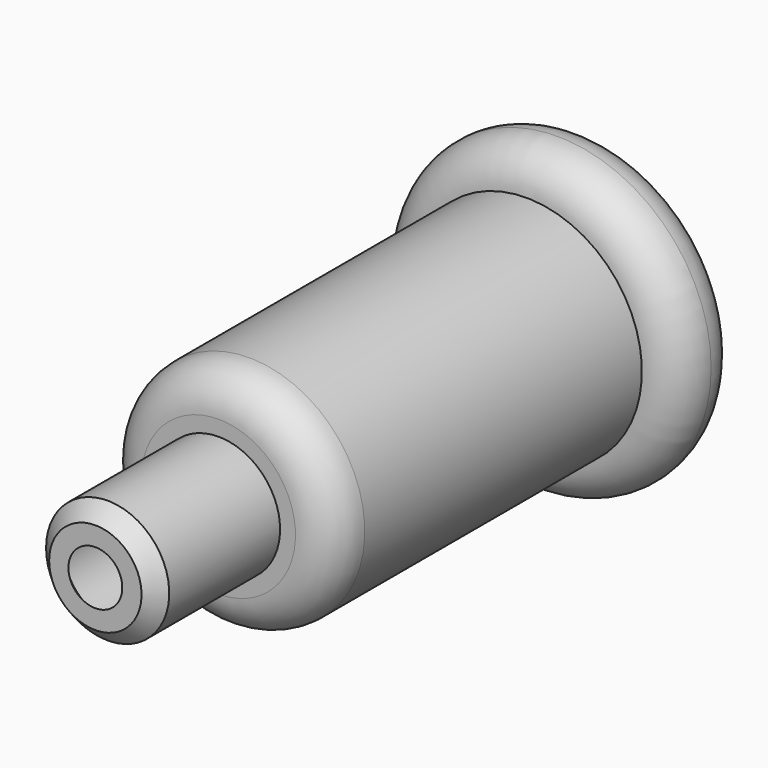
from build123d import *


with BuildPart() as f1:
    # F0 (on Top) → F1 (revolve)
    with BuildSketch(Plane.XY):
        with BuildLine():
            Line((-0.6, 0), (-0.349814, 0))
            Line((-0.349814, 0), (-0.6, 0.250186))
            Line((-0.6, 0.250186), (-0.6, 2))
            Line((-0.6, 2), (-0.6, 2.25))
            Line((-0.6, 2.25), (-1, 2.25))
            ThreePointArc((-1, 2.25), (-1.176777, 2.323223), (-1.25, 2.5))
            Line((-1.25, 2.5), (-1.25, 7))
            Line((-1.25, 7), (-1.25, 7.5))
            ThreePointArc((-1.25, 7.5), (-1.676777, 7.323223), (-1.5, 7.75))
            Line((-1.5, 7.75), (0, 7.75))
            Line((0, 7.75), (0, 8))
            Line((0, 8), (-1.5, 8))
            ThreePointArc((-1.5, 8), (-1.853553, 7.853553), (-2, 7.5))
            ThreePointArc((-2, 7.5), (-1.853553, 7.146447), (-1.5, 7))
            Line((-1.5, 7), (-1.5, 2.5))
            ThreePointArc((-1.5, 2.5), (-1.353553, 2.146447), (-1, 2))
            Line((-1, 2), (-0.8, 2))
            Line((-0.8, 2), (-0.8, 0.2))
            Line((-0.8, 0.2), (-0.6, 0))
        make_face()
    revolve(axis=Axis((0, 4.145694, 0), (0, -1, 0)))


solid = f1.part
